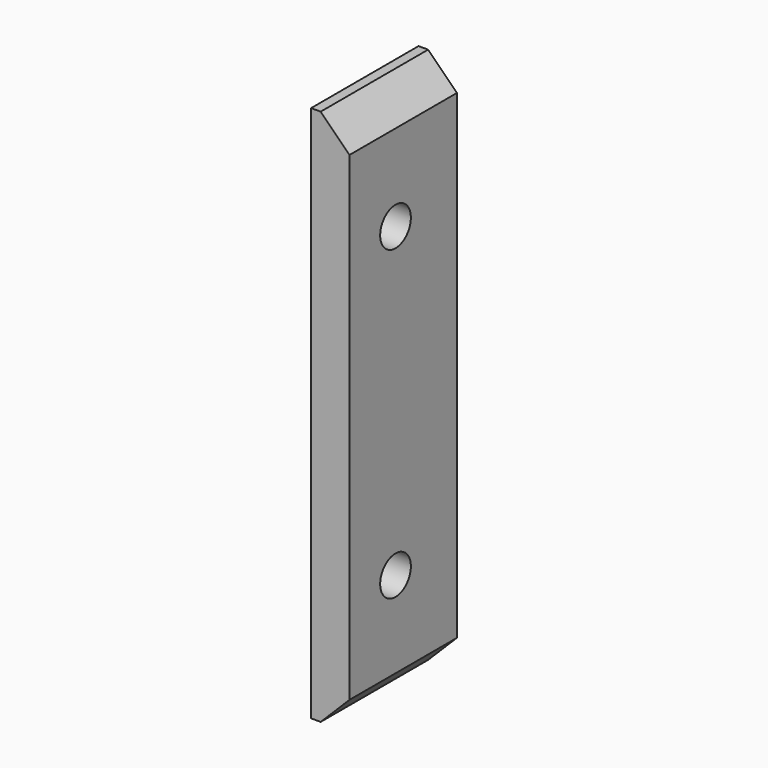
from build123d import *

# Parameters (mm, degrees)
CYLINDER2206_R     = 1
CYLINDER2206_DEPTH = 20
CYLINDER2205_R     = 1
CYLINDER2205_DEPTH = 20
BOX855_W           = 2
BOX855_H           = 7
BOX855_DEPTH       = 28
CHAMFER068_SIZE    = 1.5


with BuildPart() as obj1:
    # Cylinder2206 → Cylinder2206 (new body)
    with BuildSketch(Plane(origin=(32, -108, 18), x_dir=(0, 0, -1), z_dir=(1, 0, 0))):
        Circle(CYLINDER2206_R)
    extrude(amount=CYLINDER2206_DEPTH)


with BuildPart() as compound988:
    # Cylinder2205 → Cylinder2205 (new body)
    with BuildSketch(Plane(origin=(32, -108, 2), x_dir=(0, 0, -1), z_dir=(1, 0, 0))):
        Circle(CYLINDER2205_R)
    extrude(amount=CYLINDER2205_DEPTH)

    # Compound988: union obj1
    add(obj1.part)


with BuildPart() as chamfer068:
    # Box855 → Box855 (new body)
    with BuildSketch(Plane(origin=(46.1, -111, -4), x_dir=(1, 0, 0), z_dir=(0, 0, 1))):
        with Locations((1, 3.5)):
            Rectangle(BOX855_W, BOX855_H)
    extrude(amount=BOX855_DEPTH)

    # Cut809: cut Compound988
    add(compound988.part, mode=Mode.SUBTRACT)

    # Chamfer068
    chamfer068_edges = [chamfer068.edges().sort_by_distance(p)[0] for p in [
        (48.1, -107.5, 24),
        (48.1, -107.5, -4),
    ]]
    chamfer(chamfer068_edges, length=CHAMFER068_SIZE)


solid = chamfer068.part
